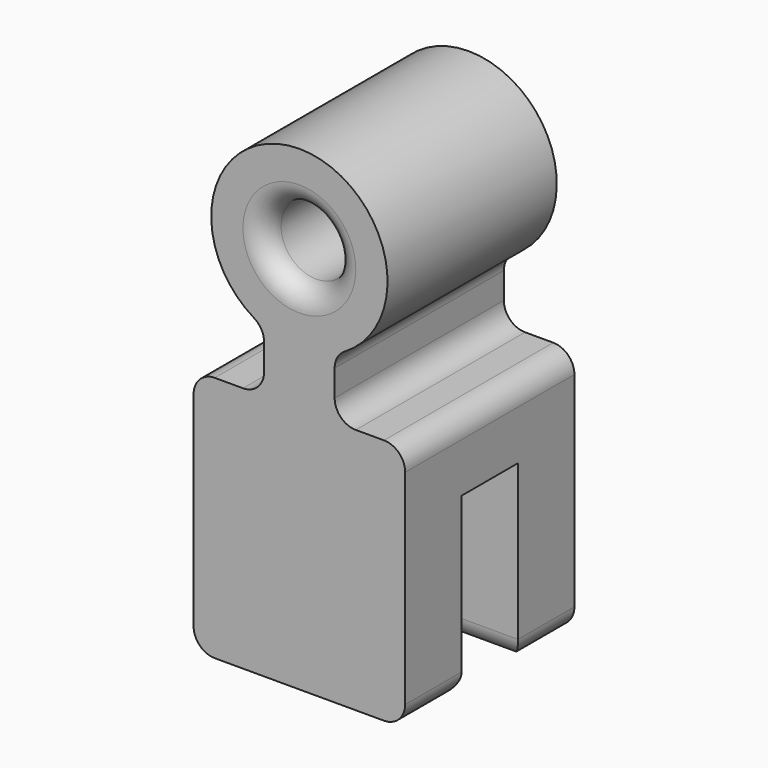
from build123d import *

# Parameters (mm, degrees)
F0_R     = 5
F1_DEPTH = 30
F2_W     = 10
F2_H     = 25
F3_DEPTH = 30.001
F4_R     = 3


with BuildPart() as f1:
    # F0 (on Front) → F1 (new body)
    with BuildSketch(Plane.XZ):
        Polygon((0, 35), (0, 0), (30, 0), (30, 35), (20, 35), (10, 35), align=None)
        with BuildLine():
            Line((10, 43.5435607626), (10, 35))
            Line((10, 35), (20, 35))
            Line((20, 35), (20, 43.5435607626))
            ThreePointArc((20, 43.5435607626), (15, 67.5), (10, 43.5435607626))
        make_face()
        with Locations((15, 55)):
            Circle(F0_R, mode=Mode.SUBTRACT)
    extrude(amount=F1_DEPTH)

    # F2 (on face) → F3 (cut, through all)
    with BuildSketch(Plane.YZ.offset(30)):
        with Locations((-15, 12.5)):
            Rectangle(F2_W, F2_H)
    extrude(amount=-F3_DEPTH, mode=Mode.SUBTRACT)

    # F4
    f4_edges = [f1.edges().sort_by_distance(p)[0] for p in [
        (10, -30, 55),
        (10, 0, 55),
        (20, -15, 43.543561),
        (20, -15, 35),
        (10, -15, 35),
        (10, -15, 43.543561),
        (30, -15, 35),
        (0, -15, 35),
        (30, -25, 0),
        (30, -5, 0),
        (0, -25, 0),
        (0, -5, 0),
        (15, -20, 0),
        (15, -10, 0),
    ]]
    fillet(f4_edges, radius=F4_R)


solid = f1.part
